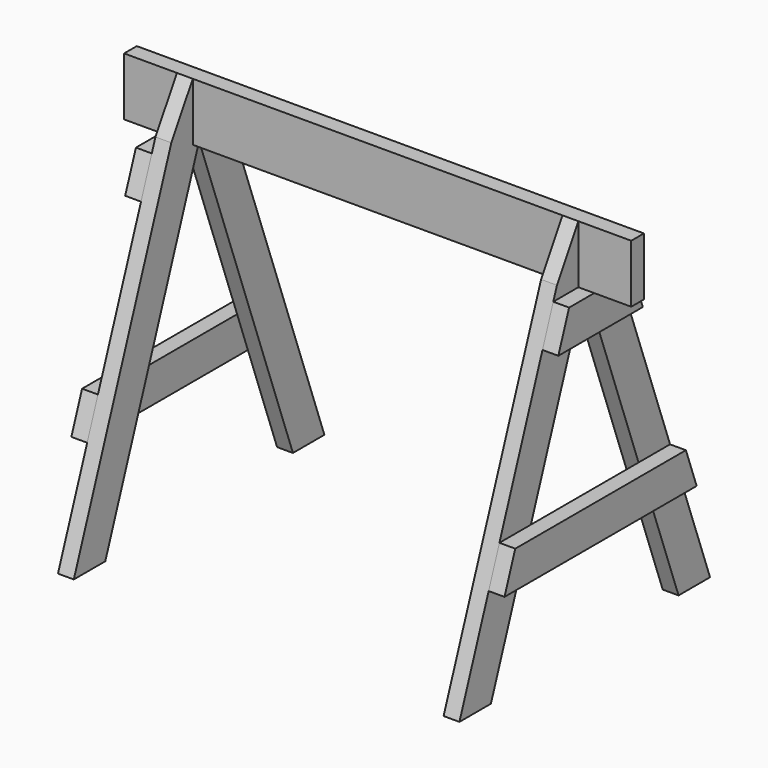
from build123d import *

# Parameters (mm, degrees)
F1_DEPTH = 139.7
F4_DEPTH = 19.05
F8_DEPTH = 38.1
F9_DEPTH = 38.1


with BuildPart() as f1:
    # F0 (on Top) → F1 (new body)
    with BuildSketch(Plane.XY):
        Polygon((-609.6, -19.05), (0, -19.05), (609.6, -19.05), (609.6, 19.05), (0, 19.05), (-609.6, 19.05), align=None)
    extrude(amount=-F1_DEPTH)


with BuildPart() as f4:
    # F3 (on offset) → F4 (new body, symmetric)
    with BuildSketch(Plane(origin=(-463.55, 0, 0), x_dir=(0, -1, 0), z_dir=(-1, 0, 0))):
        Polygon((19.05, -139.7), (0, -139.7), (281.967740486, -914.4), (376.5731444591, -914.4), (83.5386739879, -109.2944092583), (19.05, 0), align=None)
    extrude(amount=F4_DEPTH, both=True)


with BuildPart() as f5_1:
    # F5: instance of F4
    add(f4.part.mirror(Plane.XZ))


with BuildPart() as f6_1:
    # F6: instance of F4
    add(f4.part.mirror(Plane.YZ))


with BuildPart() as f6_2:
    # F6: instance of F5_1
    add(f5_1.part.mirror(Plane.YZ))


with BuildPart() as f8:
    # F7 (on face) → F8 (new body)
    with BuildSketch(Plane.YZ.offset(482.6)):
        Polygon((-19.05, -139.7), (-94.6054039731, -139.7), (-126.9623577994, -228.6), (-32.3569538263, -228.6), (0, -139.7), align=None)
        Polygon((0, -139.7), (-32.3569538263, -228.6), (126.9623577994, -228.6), (94.6054039731, -139.7), (19.05, -139.7), align=None)
    extrude(amount=F8_DEPTH)


with BuildPart() as f9:
    # F7 (on face) → F9 (new body)
    with BuildSketch(Plane.YZ.offset(482.6)):
        Polygon((-161.7847691313, -584.2), (-256.3901731044, -584.2), (-288.7471269307, -673.1), (-194.1417229576, -673.1), align=None)
        Polygon((256.3901731044, -584.2), (-161.7847691313, -584.2), (-194.1417229576, -673.1), (288.7471269307, -673.1), align=None)
    extrude(amount=F9_DEPTH)


with BuildPart() as f10_1:
    # F10: instance of F8
    add(f8.part.mirror(Plane.YZ))


with BuildPart() as f10_2:
    # F10: instance of F9
    add(f9.part.mirror(Plane.YZ))


solid = Compound([f1.part, f4.part, f5_1.part, f6_1.part, f6_2.part, f8.part, f9.part, f10_1.part, f10_2.part])
